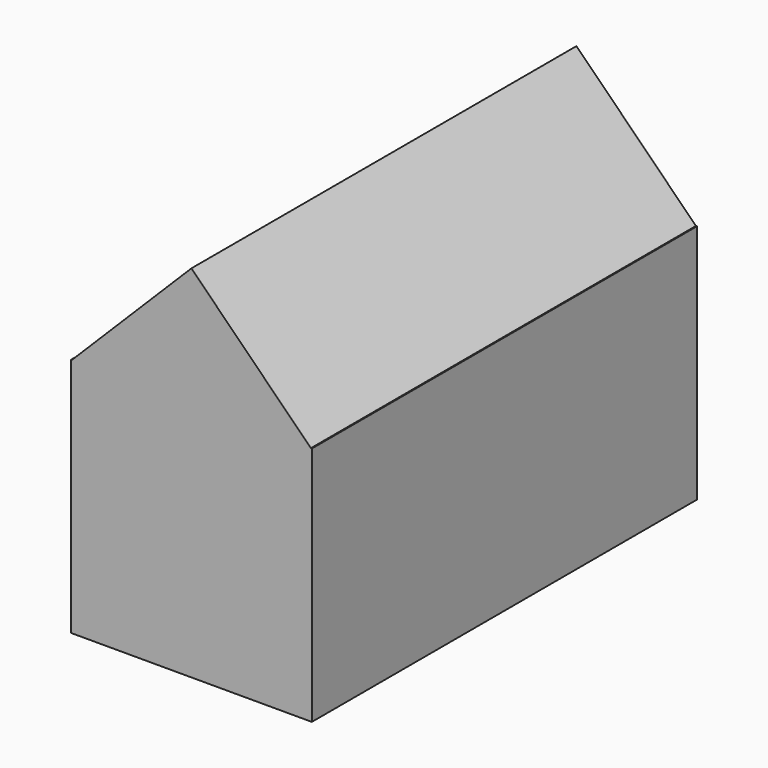
from build123d import *

# Parameters (mm, degrees)
BOX_W                  = 10
BOX_H                  = 20
BOX_DEPTH              = 10
BOX001_W               = 7.07
BOX001_H               = 20
BOX001_DEPTH           = 7.07
BOX001_PLACEMENT_ANGLE = 45


with BuildPart() as cubo:
    # Box → Box (new body)
    with BuildSketch(Plane.XY):
        with Locations((5, 10)):
            Rectangle(BOX_W, BOX_H)
    extrude(amount=BOX_DEPTH)


with BuildPart() as fusion:
    # Box001 → Box001 (new body)
    with BuildSketch(Plane.XY):
        with Locations((3.535, 10)):
            Rectangle(BOX001_W, BOX001_H)
    extrude(amount=BOX001_DEPTH)


with BuildPart() as fusion_1:
    # Box001 placement: moved
    add(fusion.part.moved(Location((-0.004245, 0, 9.965))).rotate(Axis((-0.004245, 0, 9.965), (0, 1, 0)), BOX001_PLACEMENT_ANGLE))

    # Fusion: union Cubo
    add(cubo.part)


solid = fusion_1.part
